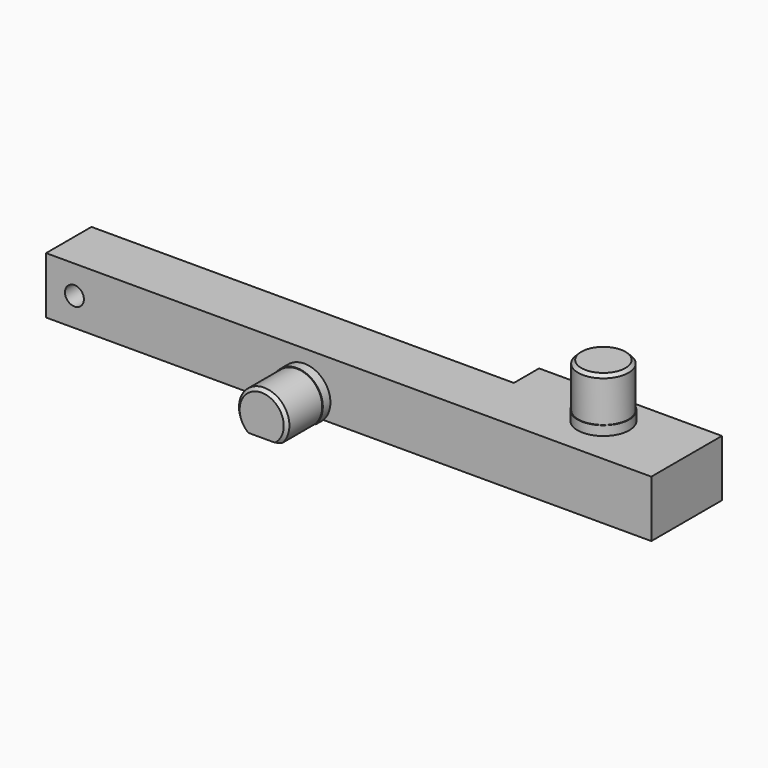
from build123d import *

# Parameters (mm, degrees)
PAD_DEPTH    = 9
SKETCH001_R  = 4.1
PAD001_DEPTH = 1.5
SKETCH002_R  = 4
PAD002_DEPTH = 7
PAD003_DEPTH = 1.5
PAD004_DEPTH = 7
SKETCH005_R  = 1.5
POCKET_DEPTH = 17.501
CHAMFER_SIZE = 0.5


with BuildPart() as part:
    # Sketch → Pad (new body)
    with BuildSketch(Plane.XY):
        Polygon((-59.96273, 0.078839), (36.03727, 0.078839), (36.03727, 14.078839), (7.03727, 14.078839), (7.03727, 9.078839), (-59.96273, 9.078839), align=None)
    extrude(amount=PAD_DEPTH)

    # Sketch001 → Pad001 (new body)
    with BuildSketch(Plane.XY.offset(9)):
        with Locations((22.03727, 8.078839)):
            Circle(SKETCH001_R)
    extrude(amount=PAD001_DEPTH)

    # Sketch002 → Pad002 (new body)
    with BuildSketch(Plane.XY.offset(10.5)):
        with Locations((22.03727, 8.078839)):
            Circle(SKETCH002_R)
    extrude(amount=PAD002_DEPTH)

    # Sketch003 → Pad003 (new body)
    with BuildSketch(Plane.XZ.offset(-0.078839)):
        with BuildLine():
            ThreePointArc((-15.96499, 0), (-18.96273, 6.897062), (-21.960469, 0))
            Line((-21.960469, 0), (-15.96499, 0))
        make_face()
    extrude(amount=PAD003_DEPTH)

    # Sketch004 → Pad004 (new body)
    with BuildSketch(Plane.XZ.offset(1.421161)):
        with BuildLine():
            ThreePointArc((-16.103281, 0), (-18.96273, 6.797062), (-21.822178, 0))
            Line((-21.822178, 0), (-16.103281, 0))
        make_face()
    extrude(amount=PAD004_DEPTH)

    # Sketch005 → Pocket (cut, through all)
    with BuildSketch(Plane(origin=(0, 9.078839, 0), x_dir=(-1, 0, 0), z_dir=(0, 1, 0))):
        with Locations((55.46273, 4.5)):
            Circle(SKETCH005_R)
    extrude(amount=-POCKET_DEPTH, mode=Mode.SUBTRACT)

    # Chamfer
    chamfer_edges = [part.edges().sort_by_distance(p)[0] for p in [
        (-18.96273, -8.421161, 6.797062),
        (18.03727, 8.078839, 17.5),
    ]]
    chamfer(chamfer_edges, length=CHAMFER_SIZE)


solid = part.part
